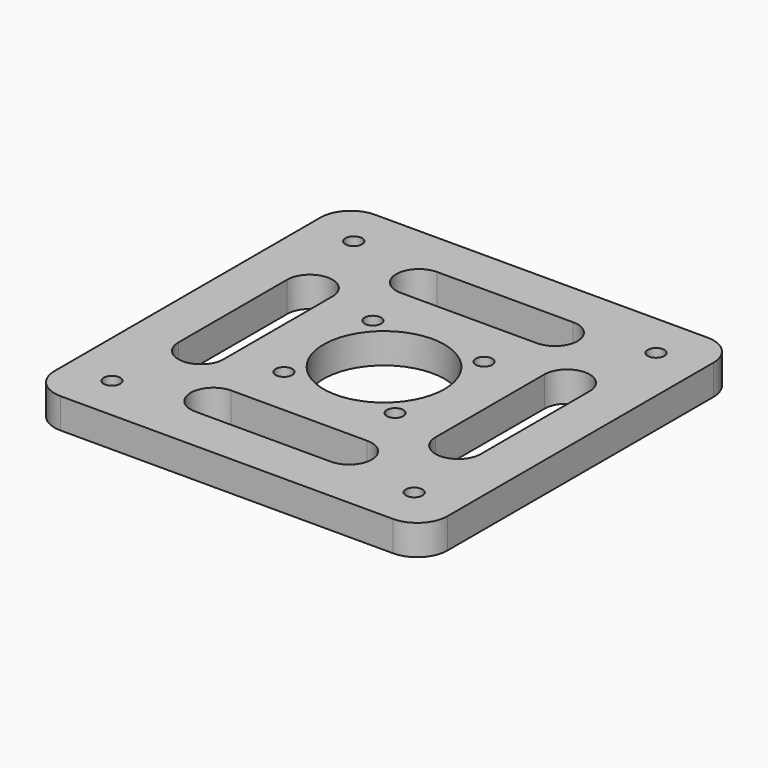
from build123d import *

# Parameters (mm, degrees)
F0_R     = 2.75
F0_R_2   = 20
F1_DEPTH = 10


with BuildPart() as f1:
    # F0 (on Top) → F1 (new body)
    with BuildSketch(Plane.XY):
        with BuildLine():
            Line((-55, -65), (55, -65))
            ThreePointArc((55, -65), (62.071068, -62.071068), (65, -55))
            Line((65, -55), (65, 55))
            ThreePointArc((65, 55), (62.071068, 62.071068), (55, 65))
            Line((55, 65), (-55, 65))
            ThreePointArc((-55, 65), (-62.071068, 62.071068), (-65, 55))
            Line((-65, 55), (-65, -55))
            ThreePointArc((-65, -55), (-62.071068, -62.071068), (-55, -65))
        make_face()
        with Locations((-50, -50)):
            Circle(F0_R, mode=Mode.SUBTRACT)
        with BuildLine():
            Line((-35, 22.554903), (-35, -22.445097))
            ThreePointArc((-35, -22.445097), (-42.444693, -30.055104), (-50, -22.554903))
            Line((-50, -22.554903), (-50, 22.445097))
            ThreePointArc((-50, 22.445097), (-42.554503, 29.945298), (-35, 22.554903))
        make_face(mode=Mode.SUBTRACT)
        with Locations((-18.384776, -18.384776)):
            Circle(F0_R, mode=Mode.SUBTRACT)
        with BuildLine():
            Line((-22.554903, -35), (22.445097, -35))
            ThreePointArc((22.445097, -35), (29.945298, -42.445497), (22.554903, -50))
            Line((22.554903, -50), (-22.445097, -50))
            ThreePointArc((-22.445097, -50), (-29.945298, -42.554503), (-22.554903, -35))
        make_face(mode=Mode.SUBTRACT)
        with Locations((50, -50)):
            Circle(F0_R, mode=Mode.SUBTRACT)
        with Locations((18.384776, -18.384776)):
            Circle(F0_R, mode=Mode.SUBTRACT)
        with Locations((-18.384776, 18.384776)):
            Circle(F0_R, mode=Mode.SUBTRACT)
        with Locations((-50, 50)):
            Circle(F0_R, mode=Mode.SUBTRACT)
        Circle(F0_R_2, mode=Mode.SUBTRACT)
        with Locations((18.384776, 18.384776)):
            Circle(F0_R, mode=Mode.SUBTRACT)
        with BuildLine():
            Line((50, 22.445097), (50, -22.554903))
            ThreePointArc((50, -22.554903), (42.445497, -29.945298), (35, -22.445097))
            Line((35, -22.445097), (35, 22.554903))
            ThreePointArc((35, 22.554903), (42.555307, 30.055104), (50, 22.445097))
        make_face(mode=Mode.SUBTRACT)
        with BuildLine():
            ThreePointArc((22.554903, 50), (30.055104, 42.444693), (22.445097, 35))
            Line((22.445097, 35), (-22.554903, 35))
            ThreePointArc((-22.554903, 35), (-29.945298, 42.554503), (-22.445097, 50))
            Line((-22.445097, 50), (22.554903, 50))
        make_face(mode=Mode.SUBTRACT)
        with Locations((50, 50)):
            Circle(F0_R, mode=Mode.SUBTRACT)
    extrude(amount=F1_DEPTH)


solid = f1.part
